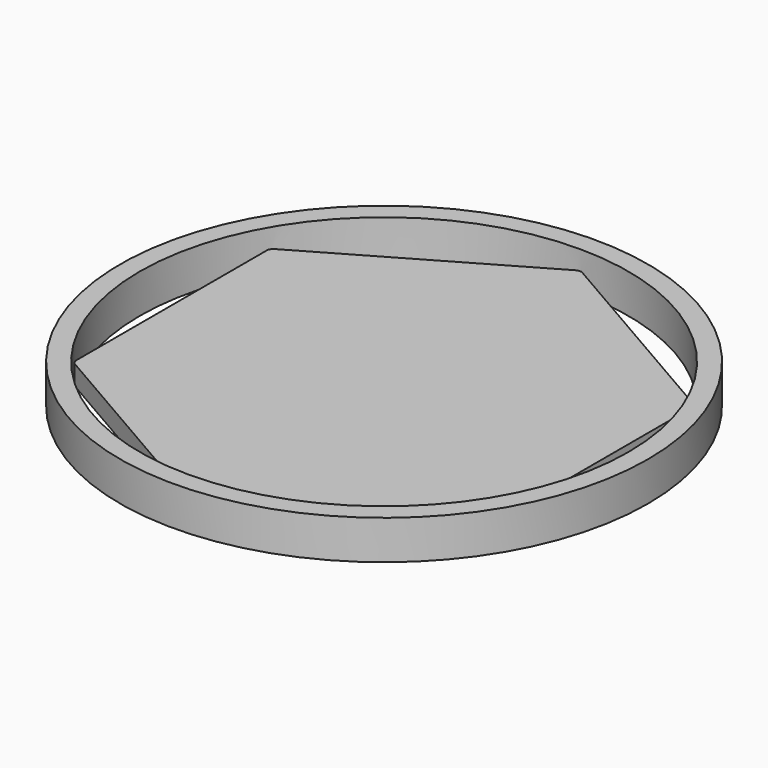
from build123d import *

# Parameters (mm, degrees)
F0_R     = 34.29
F0_R_2   = 31.75
F1_DEPTH = 5.08
F3_DEPTH = 2.54


with BuildPart() as f1:
    # F0 (on Top) → F1 (new body)
    with BuildSketch(Plane.XY):
        Circle(F0_R)
        Circle(F0_R_2, mode=Mode.SUBTRACT)
    extrude(amount=F1_DEPTH)

    # F2 (on Top) → F3 (join)
    with BuildSketch(Plane.XY):
        Polygon((27.631491, 15.939079), (0.012098, 31.899113), (-27.619393, 15.960034), (-27.631491, -15.939079), (-0.012098, -31.899113), (27.619393, -15.960034), align=None)
    extrude(amount=F3_DEPTH)


solid = f1.part
